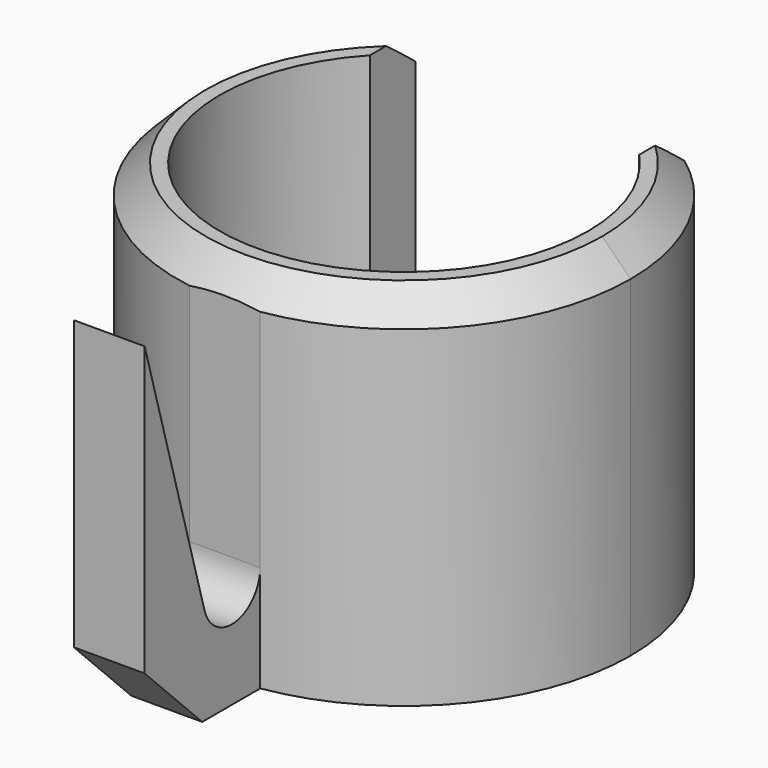
from build123d import *

# Parameters (mm, degrees)
F1_DEPTH = 25.4
F3_DEPTH = 25.4
F5_DEPTH = 25.4
F6_SIZE  = 5.08
F7_SIZE  = 1
F8_SIZE  = 2


with BuildPart() as f1:
    # F0 (on Top) → F1 (new body)
    with BuildSketch(Plane.XY):
        with BuildLine():
            Line((9.5, 12.8743931896), (9.5, 8.8741196746))
            ThreePointArc((9.5, 8.8741196746), (12.0933866224, 4.7696960071), (13, 0))
            ThreePointArc((13, 0), (-4.7696960071, -12.0933866224), (-9.5, 8.8741196746))
            Line((-9.5, 8.8741196747), (-9.5, 12.8743931896))
            ThreePointArc((-9.5, 12.8743931896), (-7.2111025509, -14.2828568571), (16, 0))
            ThreePointArc((16, 0), (14.2828568571, 7.2111025509), (9.5, 12.8743931896))
        make_face()
    extrude(amount=F1_DEPTH)

    # F2 (on face) → F3 (join, through all)
    with BuildSketch(Plane(origin=(0, 0, 0), x_dir=(1, 0, 0), z_dir=(0, 0, -1))):
        with BuildLine():
            Line((2.5, 15.8034806293), (2.5, 26))
            Line((2.5, 26), (-2.5, 26))
            Line((-2.5, 26), (-2.5, 15.8034806293))
            ThreePointArc((-2.5, 15.8034806293), (0, 16), (2.5, 15.8034806293))
        make_face()
    extrude(amount=-F3_DEPTH)

    # F4 (on face) → F5 (cut)
    with BuildSketch(Plane(origin=(-2.5, 0, 0), x_dir=(0, -1, 0), z_dir=(-1, 0, 0))):
        with BuildLine():
            ThreePointArc((20.8034806293, 7.5), (20.7794696728, 7.1543437309), (20.7078980242, 6.8153270919))
            Line((20.7078980242, 6.8153270919), (26, 25.4000000001))
            Line((26, 25.4), (15.8034806293, 25.4))
            Line((15.8034806293, 25.4), (15.8034806293, 7.4999999981))
            ThreePointArc((15.8034806293, 7.4999999981), (18.3034806283, 10), (20.8034806293, 7.5))
        make_face()
        with BuildLine():
            ThreePointArc((15.8034806293, 7.4999999981), (17.9578243611, 5.0240109563), (20.7078980242, 6.8153270919))
            ThreePointArc((20.7078980242, 6.8153270919), (20.7794696728, 7.1543437309), (20.8034806293, 7.5))
            ThreePointArc((20.8034806293, 7.5), (18.3034806283, 10), (15.8034806293, 7.4999999981))
        make_face()
    extrude(amount=-F5_DEPTH, mode=Mode.SUBTRACT)

    # F6
    f6_edges = [f1.edges().sort_by_distance(p)[0] for p in [
        (0, -26, 0),
    ]]
    chamfer(f6_edges, length=F6_SIZE)

    # F7
    f7_edges = [f1.edges().sort_by_distance(p)[0] for p in [
        (0, -13, 0),
    ]]
    chamfer(f7_edges, length=F7_SIZE)

    # F8
    f8_edges = [f1.edges().sort_by_distance(p)[0] for p in [
        (14.282857, 7.211103, 25.4),
    ]]
    chamfer(f8_edges, length=F8_SIZE)


solid = f1.part
